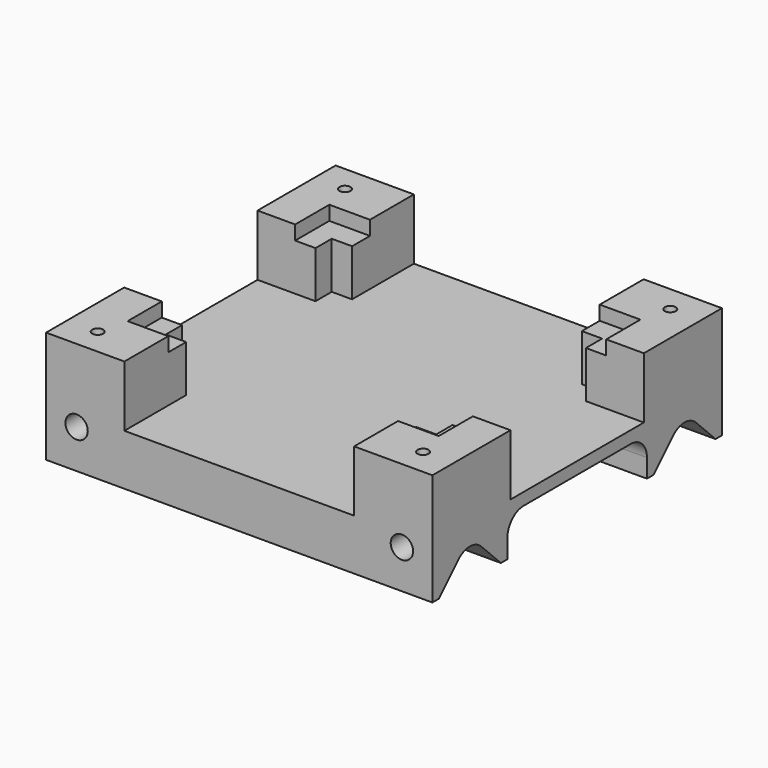
from build123d import *

# Parameters (mm, degrees)
F0_W      = 95
F0_H      = 89
F1_DEPTH  = 15
F2_W      = 95
F2_H      = 89
F3_DEPTH  = 25
F4_W      = 66.5
F4_H      = 51
F5_DEPTH  = 15
F6_W      = 76.5
F6_H      = 62
F7_DEPTH  = 3.5
F9_DEPTH  = 95.001
F10_R     = 5
F11_R     = 5
F12_R     = 2.75
F13_DEPTH = 89.001
F14_R     = 1.35
F15_DEPTH = 13
F16_W     = 56.5
F16_H     = 15
F17_DEPTH = 89.001
F18_W     = 41
F18_H     = 15
F19_DEPTH = 95.001


with BuildPart() as f1:
    # F0 (on Top) → F1 (new body)
    with BuildSketch(Plane.XY):
        with Locations((47.5, 44.5)):
            Rectangle(F0_W, F0_H)
    extrude(amount=F1_DEPTH)

    # F2 (on face) → F3 (join)
    with BuildSketch(Plane(origin=(0, 0, 0), x_dir=(1, 0, 0), z_dir=(0, 0, -1))):
        with Locations((47.5, -44.5)):
            Rectangle(F2_W, F2_H)
    extrude(amount=F3_DEPTH)

    # F4 (on face) → F5 (cut)
    with BuildSketch(Plane.XY.offset(15)):
        with Locations((47.5, 44.5)):
            Rectangle(F4_W, F4_H)
    extrude(amount=-F5_DEPTH, mode=Mode.SUBTRACT)

    # F6 (on face) → F7 (cut)
    with BuildSketch(Plane.XY.offset(15)):
        with Locations((47.5, 44.5)):
            Rectangle(F6_W, F6_H)
    extrude(amount=-F7_DEPTH, mode=Mode.SUBTRACT)

    # F8 (on face) → F9 (cut, through all)
    with BuildSketch(Plane.YZ.offset(95)):
        Polygon((21.045942, -12.545942), (11.5, -3), (1.954058, -12.545942), (0, -12.545942), (0, -25), (44.5, -25), (44.5, -3), (23.045942, -3), (23.045942, -12.545942), align=None)
        Polygon((44.5, -3), (44.5, -25), (89, -25), (89, -12.545942), (87.045942, -12.545942), (77.5, -3), (67.954058, -12.545942), (65.954058, -12.545942), (65.954058, -3), align=None)
    extrude(amount=-F9_DEPTH, mode=Mode.SUBTRACT)

    # F10
    f10_edges = [f1.edges().sort_by_distance(p)[0] for p in [
        (47.5, 11.5, -3),
        (47.5, 77.5, -3),
    ]]
    fillet(f10_edges, radius=F10_R)

    # F11
    f11_edges = [f1.edges().sort_by_distance(p)[0] for p in [
        (47.5, 65.954058, -3),
        (47.5, 23.045942, -3),
    ]]
    fillet(f11_edges, radius=F11_R)

    # F12 (on face) → F13 (cut, through all)
    with BuildSketch(Plane.XZ):
        with Locations((7.5, -3)):
            Circle(F12_R)
        with Locations((87.5, -3)):
            Circle(F12_R)
    extrude(amount=-F13_DEPTH, mode=Mode.SUBTRACT)

    # F14 (on face) → F15 (cut)
    with BuildSketch(Plane.XY.offset(15)):
        with Locations((7.5, 6.5)):
            Circle(F14_R)
        with Locations((7.5, 82.5)):
            Circle(F14_R)
        with Locations((87.5, 6.5)):
            Circle(F14_R)
        with Locations((87.5, 82.5)):
            Circle(F14_R)
    extrude(amount=-F15_DEPTH, mode=Mode.SUBTRACT)

    # F16 (on face) → F17 (cut, through all)
    with BuildSketch(Plane(origin=(0, 89, 0), x_dir=(-1, 0, 0), z_dir=(0, 1, 0))):
        with Locations((-47.5, 7.5)):
            Rectangle(F16_W, F16_H)
    extrude(amount=-F17_DEPTH, mode=Mode.SUBTRACT)

    # F18 (on face) → F19 (cut, through all)
    with BuildSketch(Plane.YZ.offset(95)):
        with Locations((44.5, 7.5)):
            Rectangle(F18_W, F18_H)
    extrude(amount=-F19_DEPTH, mode=Mode.SUBTRACT)


solid = f1.part
